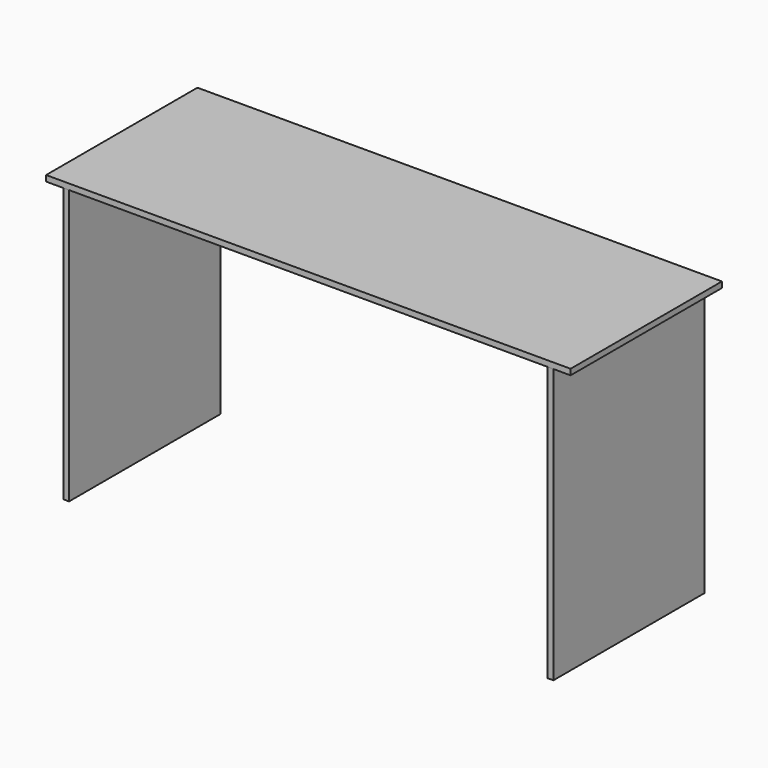
from build123d import *

# Parameters (mm, degrees)
F1_DEPTH = 558.8
F2_DEPTH = 558.8
F3_DEPTH = 558.8
F0_W     = 1413.51
F0_H     = 304.8
F4_DEPTH = 17.145


with BuildPart() as f1:
    # F0 (on Front) → F1 (new body)
    with BuildSketch(Plane.XZ):
        Polygon((0, 809.625), (0, 0), (17.145, 0), (17.145, 504.825), (17.145, 809.625), align=None)
    extrude(amount=F1_DEPTH)


with BuildPart() as f2:
    # F0 (on Front) → F2 (new body)
    with BuildSketch(Plane.XZ):
        Polygon((-50.8, 809.625), (0, 809.625), (17.145, 809.625), (1430.655, 809.625), (1447.8, 809.625), (1498.6, 809.625), (1498.6, 826.77), (-50.8, 826.77), align=None)
    extrude(amount=F2_DEPTH)


with BuildPart() as f3:
    # F0 (on Front) → F3 (new body)
    with BuildSketch(Plane.XZ):
        Polygon((1430.655, 809.625), (1430.655, 504.825), (1430.655, 0), (1447.8, 0), (1447.8, 809.625), align=None)
    extrude(amount=F3_DEPTH)


with BuildPart() as f4:
    # F0 (on Front) → F4 (new body)
    with BuildSketch(Plane.XZ):
        with Locations((723.9, 657.225)):
            Rectangle(F0_W, F0_H)
    extrude(amount=F4_DEPTH)


solid = Compound([f1.part, f2.part, f3.part, f4.part])
